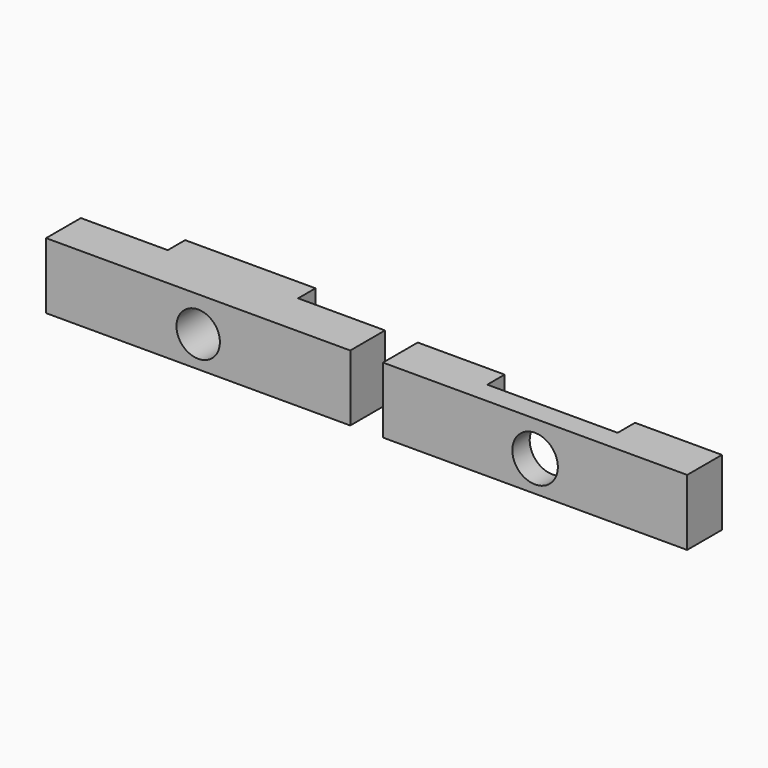
from build123d import *

# Parameters (mm, degrees)
F1_DEPTH = 9.652
F2_DEPTH = 9.652
F3_R     = 3.175
F4_DEPTH = 25.4
F5_R     = 3.325305
F6_DEPTH = 25.4


with BuildPart() as f1:
    # F0 (on Top) → F1 (new body)
    with BuildSketch(Plane.XY):
        Polygon((19.340847, 6.35), (6.640847, 6.35), (6.640847, 0), (51.090847, 0), (51.090847, 6.35), (38.390847, 6.35), (38.390847, 3.175), (19.340847, 3.175), align=None)
    extrude(amount=F1_DEPTH)

    # F0 (on Top) → F2 (join)
    with BuildSketch(Plane.XY):
        Polygon((19.340847, 6.35), (6.640847, 6.35), (6.640847, 0), (51.090847, 0), (51.090847, 6.35), (38.390847, 6.35), (38.390847, 3.175), (19.340847, 3.175), align=None)
        Polygon((-29.889638, 6.35), (-42.589638, 6.35), (-42.589638, 0), (1.860362, 0), (1.860362, 6.35), (-10.839638, 6.35), (-10.839638, 9.525), (-29.889638, 9.525), align=None)
    extrude(amount=F2_DEPTH)

    # F3 (on face) → F4 (cut)
    with BuildSketch(Plane(origin=(0, 9.525, 0), x_dir=(-1, 0, 0), z_dir=(0, 1, 0))):
        with Locations((20.364638, 4.525273)):
            Circle(F3_R)
    extrude(amount=-F4_DEPTH, mode=Mode.SUBTRACT)

    # F5 (on face) → F6 (cut)
    with BuildSketch(Plane(origin=(0, 3.175, 0), x_dir=(-1, 0, 0), z_dir=(0, 1, 0))):
        with Locations((-28.865847, 4.5212)):
            Circle(F5_R)
    extrude(amount=-F6_DEPTH, mode=Mode.SUBTRACT)


solid = f1.part
